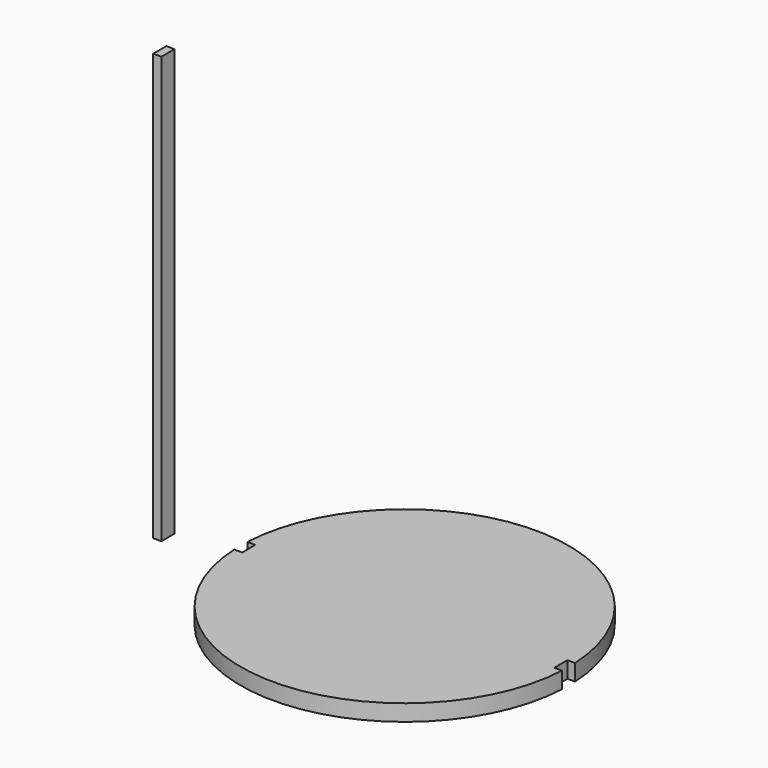
from build123d import *

# Parameters (mm, degrees)
F0_W     = 10
F0_H     = 20
F1_DEPTH = 520
F2_R     = 200
F3_DEPTH = 20
F4_W     = 10
F4_H     = 20
F5_DEPTH = 20
F6_W     = 10
F6_H     = 20
F7_DEPTH = 20


with BuildPart() as f1:
    # F0 (on Top) → F1 (new body)
    with BuildSketch(Plane.XY):
        with Locations((-293.499589, 0)):
            Rectangle(F0_W, F0_H)
    extrude(amount=F1_DEPTH)


with BuildPart() as f3:
    # F2 (on Top) → F3 (new body)
    with BuildSketch(Plane.XY):
        Circle(F2_R)
    extrude(amount=F3_DEPTH)

    # F4 (on Top) → F5 (cut)
    with BuildSketch(Plane.XY):
        with Locations((-195.025742, 0)):
            Rectangle(F4_W, F4_H)
    extrude(amount=F5_DEPTH, mode=Mode.SUBTRACT)

    # F6 (on Top) → F7 (cut)
    with BuildSketch(Plane.XY):
        with Locations((195.408762, 0)):
            Rectangle(F6_W, F6_H)
    extrude(amount=F7_DEPTH, mode=Mode.SUBTRACT)


solid = Compound([f1.part, f3.part])
